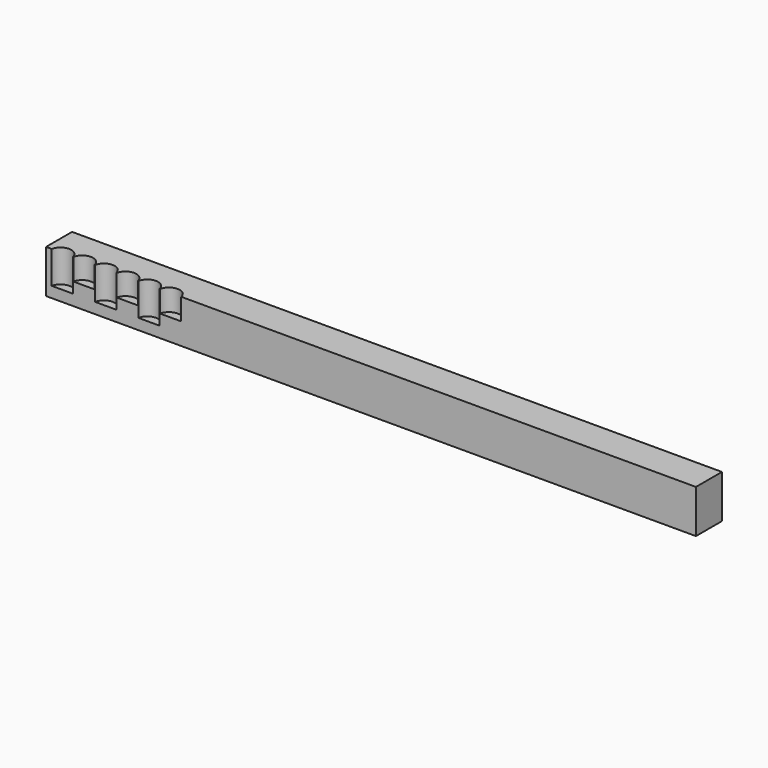
from build123d import *

# Parameters (mm, degrees)
F0_W     = 38.1
F0_H     = 50.8
F1_DEPTH = 762
F3_DEPTH = 38.1
F5_DEPTH = 25.4


with BuildPart() as f1:
    # F0 (on Right) → F1 (new body)
    with BuildSketch(Plane.YZ):
        with Locations((19.05, 25.4)):
            Rectangle(F0_W, F0_H)
    extrude(amount=F1_DEPTH)

    # F2 (on face) → F3 (cut)
    with BuildSketch(Plane.XY.offset(50.8)):
        with BuildLine():
            ThreePointArc((6.35, -2.54), (19.05, -15.24), (31.75, -2.54))
            ThreePointArc((31.75, -2.54), (19.05, 10.16), (6.35, -2.54))
        make_face()
        with BuildLine():
            ThreePointArc((57.15, -2.54), (69.85, -15.24), (82.55, -2.54))
            ThreePointArc((82.55, -2.54), (69.85, 10.16), (57.15, -2.54))
        make_face()
        with BuildLine():
            ThreePointArc((107.95, -2.54), (120.65, -15.24), (133.35, -2.54))
            ThreePointArc((133.35, -2.54), (120.65, 10.16), (107.95, -2.54))
        make_face()
    extrude(amount=-F3_DEPTH, mode=Mode.SUBTRACT)

    # F4 (on face) → F5 (cut)
    with BuildSketch(Plane.XY.offset(50.8)):
        with BuildLine():
            ThreePointArc((31.75, -2.54), (44.45, -15.24), (57.15, -2.54))
            ThreePointArc((57.15, -2.54), (44.45, 10.16), (31.75, -2.54))
        make_face()
        with BuildLine():
            ThreePointArc((158.75, -2.54), (146.05, 10.16), (133.35, -2.54))
            ThreePointArc((133.35, -2.54), (146.05, -15.24), (158.75, -2.54))
        make_face()
        with BuildLine():
            ThreePointArc((107.95, -2.54), (95.25, 10.16), (82.55, -2.54))
            ThreePointArc((82.55, -2.54), (95.25, -15.24), (107.95, -2.54))
        make_face()
    extrude(amount=-F5_DEPTH, mode=Mode.SUBTRACT)


solid = f1.part
